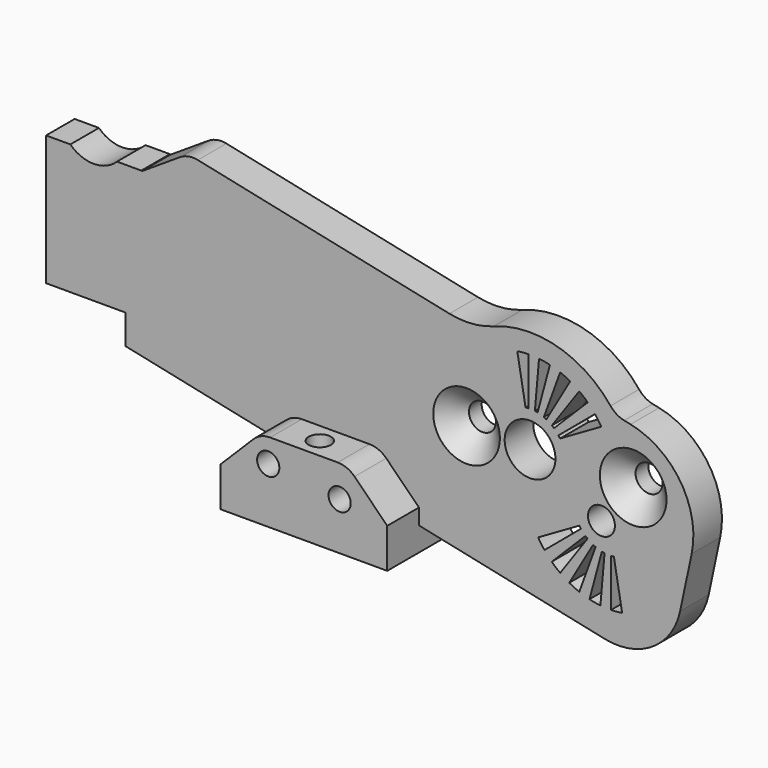
from build123d import *

# Parameters (mm, degrees)
CYLINDER088_R                = 1.4
CYLINDER088_DEPTH            = 20
CYLINDER088_ROLL_ANGLE       = 90
CYLINDER089_R                = 1.4
CYLINDER089_DEPTH            = 30
CYLINDER087_R                = 1.4
CYLINDER087_DEPTH            = 20
CYLINDER087_ROLL_ANGLE       = 90
BOX001027025_W               = 21
BOX001027025_H               = 9.5
BOX001027025_DEPTH           = 10
CHAMFER007_SIZE              = 5
FILLET013_R                  = 3
CYLINDER085_R                = 1.7
CYLINDER085_DEPTH            = 10
CYLINDER085_ROLL_ANGLE       = 90
CYLINDER084_R                = 1.7
CYLINDER084_DEPTH            = 10
CYLINDER084_ROLL_ANGLE       = 90
CYLINDER086_R                = 4.2
CYLINDER086_DEPTH            = 18
CYLINDER086_ROLL_ANGLE       = 90
BOX001027021_W               = 15
BOX001027021_H               = 24
BOX001027021_DEPTH           = 10.6
BOX001027029_W               = 2
BOX001027029_H               = 20
BOX001027029_DEPTH           = 13
CYLINDER094_R                = 2
CYLINDER094_DEPTH            = 26
CYLINDER094_ROLL_ANGLE       = 90
CYLINDER095_R                = 8
CYLINDER095_DEPTH            = 18
CYLINDER095_ROLL_ANGLE       = 90
BOX001027028_W               = 13
BOX001027028_H               = 20
BOX001027028_DEPTH           = 2
BOX001027028_PLACEMENT_ANGLE = 80
COMMON039_PITCH_ANGLE        = 10
COMMON040_PLACEMENT_ANGLE    = 25
COMMON041_PITCH_ANGLE        = -20
COMMON042_PITCH_ANGLE        = -35
COMMON038_PITCH_ANGLE        = -5
FUSION094_PLACEMENT_ANGLE    = 205
CYLINDER091_R                = 1.7
CYLINDER091_DEPTH            = 20
CYLINDER091_ROLL_ANGLE       = 90
CYLINDER090_R                = 3.2
CYLINDER090_DEPTH            = 20
CYLINDER090_ROLL_ANGLE       = 90
BOX001027027_W               = 2
BOX001027027_H               = 20
BOX001027027_DEPTH           = 13
CYLINDER092_R                = 2
CYLINDER092_DEPTH            = 26
CYLINDER092_ROLL_ANGLE       = 90
CYLINDER093_R                = 8
CYLINDER093_DEPTH            = 18
CYLINDER093_ROLL_ANGLE       = 90
BOX001027026_W               = 13
BOX001027026_H               = 20
BOX001027026_DEPTH           = 2
BOX001027026_PLACEMENT_ANGLE = 80
COMMON034_PITCH_ANGLE        = 10
COMMON035_PLACEMENT_ANGLE    = 25
COMMON036_PITCH_ANGLE        = -20
COMMON037_PITCH_ANGLE        = -35
COMMON033_PITCH_ANGLE        = -5
FUSION093_PLACEMENT_ANGLE    = 25
BOX001027024_W               = 80
BOX001027024_H               = 4.5
BOX001027024_DEPTH           = 25
BOX001027024_PITCH_ANGLE     = 12
CHAMFER006_SIZE              = 13
BOX001027022_W               = 12
BOX001027022_H               = 4.5
BOX001027022_DEPTH           = 17
CYLINDER096_R                = 13
CYLINDER096_DEPTH            = 4.5
CYLINDER096_ROLL_ANGLE       = 90
FILLET014_R                  = 8
FILLET015_R                  = 10
FILLET016_R                  = 3
FILLET017_R                  = 10
FILLET018_R                  = 3
CHAMFER009_SIZE              = 2.5


with BuildPart() as cylinder088:
    # Cylinder088 → Cylinder088 (new body)
    with BuildSketch(Plane.XY):
        Circle(CYLINDER088_R)
    extrude(amount=CYLINDER088_DEPTH)


with BuildPart() as cylinder088_1:
    # Cylinder088 roll: moved
    add(cylinder088.part.rotate(Axis((0, 0, 0), (1, 0, 0)), CYLINDER088_ROLL_ANGLE))


with BuildPart() as cylinder088_2:
    # Cylinder088 placement: moved
    add(cylinder088_1.part.moved(Location((26, 10, -35))))


with BuildPart() as cylinder089:
    # Cylinder089 → Cylinder089 (new body)
    with BuildSketch(Plane(origin=(30.5, 0, -55), x_dir=(1, 0, 0), z_dir=(0, 0, 1))):
        Circle(CYLINDER089_R)
    extrude(amount=CYLINDER089_DEPTH)


with BuildPart() as base_block_holes:
    # Cylinder087 → Cylinder087 (new body)
    with BuildSketch(Plane.XY):
        Circle(CYLINDER087_R)
    extrude(amount=CYLINDER087_DEPTH)


with BuildPart() as base_block_holes_1:
    # Cylinder087 roll: moved
    add(base_block_holes.part.rotate(Axis((0, 0, 0), (1, 0, 0)), CYLINDER087_ROLL_ANGLE))


with BuildPart() as base_block_holes_2:
    # Cylinder087 placement: moved
    add(base_block_holes_1.part.moved(Location((35, 10, -36))))

    # Fusion105: union Cylinder088, Cylinder089
    add(cylinder088_2.part)
    add(cylinder089.part)


with BuildPart() as fillet013:
    # Box001027025 → Box001027025 (new body)
    with BuildSketch(Plane(origin=(20, -2.5, -42), x_dir=(1, 0, 0), z_dir=(0, 0, 1))):
        with Locations((10.5, 4.75)):
            Rectangle(BOX001027025_W, BOX001027025_H)
    extrude(amount=BOX001027025_DEPTH)

    # Chamfer007
    chamfer007_edges = [fillet013.edges().sort_by_distance(p)[0] for p in [
        (20, 2.25, -32),
        (41, 2.25, -32),
    ]]
    chamfer(chamfer007_edges, length=CHAMFER007_SIZE)

    # Fillet013
    fillet013_edges = [fillet013.edges().sort_by_distance(p)[0] for p in [
        (25, 2.25, -32),
        (36, 2.25, -32),
    ]]
    fillet(fillet013_edges, radius=FILLET013_R)


with BuildPart() as cylinder160:
    # Cylinder085 → Cylinder085 (new body)
    with BuildSketch(Plane.XY):
        Circle(CYLINDER085_R)
    extrude(amount=CYLINDER085_DEPTH)


with BuildPart() as cylinder160_1:
    # Cylinder085 roll: moved
    add(cylinder160.part.rotate(Axis((0, 0, 0), (1, 0, 0)), CYLINDER085_ROLL_ANGLE))


with BuildPart() as cylinder160_2:
    # Cylinder085 placement: moved
    add(cylinder160_1.part.moved(Location((47, 10, -26))))


with BuildPart() as mounting_holes001:
    # Cylinder084 → Cylinder084 (new body)
    with BuildSketch(Plane.XY):
        Circle(CYLINDER084_R)
    extrude(amount=CYLINDER084_DEPTH)


with BuildPart() as mounting_holes001_1:
    # Cylinder084 roll: moved
    add(mounting_holes001.part.rotate(Axis((0, 0, 0), (1, 0, 0)), CYLINDER084_ROLL_ANGLE))


with BuildPart() as mounting_holes001_2:
    # Cylinder084 placement: moved
    add(mounting_holes001_1.part.moved(Location((68, 10, -26))))

    # Fusion096: union Cylinder160
    add(cylinder160_2.part)


with BuildPart() as cylinder086:
    # Cylinder086 → Cylinder086 (new body)
    with BuildSketch(Plane.XY):
        Circle(CYLINDER086_R)
    extrude(amount=CYLINDER086_DEPTH)


with BuildPart() as cylinder086_1:
    # Cylinder086 roll: moved
    add(cylinder086.part.rotate(Axis((0, 0, 0), (1, 0, 0)), CYLINDER086_ROLL_ANGLE))


with BuildPart() as cylinder086_2:
    # Cylinder086 placement: moved
    add(cylinder086_1.part.moved(Location((0, 9, -8))))


with BuildPart() as cube041:
    # Box001027021 → Box001027021 (new body)
    with BuildSketch(Plane(origin=(-11, -13, -38), x_dir=(1, 0, 0), z_dir=(0, 0, 1))):
        with Locations((7.5, 12)):
            Rectangle(BOX001027021_W, BOX001027021_H)
    extrude(amount=BOX001027021_DEPTH)


with BuildPart() as cube049:
    # Box001027029 → Box001027029 (new body)
    with BuildSketch(Plane(origin=(0, -10, 0), x_dir=(1, 0, 0), z_dir=(0, 0, 1))):
        with Locations((1, 10)):
            Rectangle(BOX001027029_W, BOX001027029_H)
    extrude(amount=BOX001027029_DEPTH)


with BuildPart() as cylinder161:
    # Cylinder094 → Cylinder094 (new body)
    with BuildSketch(Plane.XY):
        Circle(CYLINDER094_R)
    extrude(amount=CYLINDER094_DEPTH)


with BuildPart() as cylinder161_1:
    # Cylinder094 roll: moved
    add(cylinder161.part.rotate(Axis((0, 0, 0), (1, 0, 0)), CYLINDER094_ROLL_ANGLE))


with BuildPart() as cylinder161_2:
    # Cylinder094 placement: moved
    add(cylinder161_1.part.moved(Location((0, 12, 0))))


with BuildPart() as cut049:
    # Cylinder095 → Cylinder095 (new body)
    with BuildSketch(Plane.XY):
        Circle(CYLINDER095_R)
    extrude(amount=CYLINDER095_DEPTH)


with BuildPart() as cut049_1:
    # Cylinder095 roll: moved
    add(cut049.part.rotate(Axis((0, 0, 0), (1, 0, 0)), CYLINDER095_ROLL_ANGLE))


with BuildPart() as cut049_2:
    # Cylinder095 placement: moved
    add(cut049_1.part.moved(Location((0, 9, 0))))

    # Cut049: cut Cylinder161
    add(cylinder161_2.part, mode=Mode.SUBTRACT)


with BuildPart() as cube048:
    # Box001027028 → Box001027028 (new body)
    with BuildSketch(Plane.XY):
        with Locations((6.5, 10)):
            Rectangle(BOX001027028_W, BOX001027028_H)
    extrude(amount=BOX001027028_DEPTH)


with BuildPart() as cube048_1:
    # Box001027028 placement: moved
    add(cube048.part.moved(Location((0, -10, 0))).rotate(Axis((0, -10, 0), (0, -1, 0)), BOX001027028_PLACEMENT_ANGLE))


with BuildPart() as common039:
    # Common039 base: copy of Cube048
    add(cube048_1.part)

    # Common039: intersect Cube049, Cut049
    add(cube049.part, mode=Mode.INTERSECT)
    add(cut049_2.part, mode=Mode.INTERSECT)


with BuildPart() as common039_1:
    # Common039 pitch: moved
    add(common039.part.rotate(Axis((0, 0, 0), (0, 1, 0)), COMMON039_PITCH_ANGLE))


with BuildPart() as common039_2:
    # Common039 placement: moved
    add(common039_1.part.moved(Location((0.647048, 0, 2.414815))))


with BuildPart() as common040:
    # Common040 base: copy of Cube048
    add(cube048_1.part)

    # Common040: intersect Cube049, Cut049
    add(cube049.part, mode=Mode.INTERSECT)
    add(cut049_2.part, mode=Mode.INTERSECT)


with BuildPart() as common040_1:
    # Common040 placement: moved
    add(common040.part.moved(Location((1.25, 0, 2.165064))).rotate(Axis((1.25, 0, 2.165064), (0, 1, 0)), COMMON040_PLACEMENT_ANGLE))


with BuildPart() as common041:
    # Common041 base: copy of Cube048
    add(cube048_1.part)

    # Common041: intersect Cube049, Cut049
    add(cube049.part, mode=Mode.INTERSECT)
    add(cut049_2.part, mode=Mode.INTERSECT)


with BuildPart() as common041_1:
    # Common041 pitch: moved
    add(common041.part.rotate(Axis((0, 0, 0), (0, 1, 0)), COMMON041_PITCH_ANGLE))


with BuildPart() as common041_2:
    # Common041 placement: moved
    add(common041_1.part.moved(Location((-0.647048, 0, 2.414815))))


with BuildPart() as common042:
    # Common042 base: copy of Cube048
    add(cube048_1.part)

    # Common042: intersect Cube049, Cut049
    add(cube049.part, mode=Mode.INTERSECT)
    add(cut049_2.part, mode=Mode.INTERSECT)


with BuildPart() as common042_1:
    # Common042 pitch: moved
    add(common042.part.rotate(Axis((0, 0, 0), (0, 1, 0)), COMMON042_PITCH_ANGLE))


with BuildPart() as common042_2:
    # Common042 placement: moved
    add(common042_1.part.moved(Location((-1.25, 0, 2.165064))))


with BuildPart() as strength_slots009:
    # Common038 base: copy of Cube048
    add(cube048_1.part)

    # Common038: intersect Cube049, Cut049
    add(cube049.part, mode=Mode.INTERSECT)
    add(cut049_2.part, mode=Mode.INTERSECT)


with BuildPart() as strength_slots009_1:
    # Common038 pitch: moved
    add(strength_slots009.part.rotate(Axis((0, 0, 0), (0, 1, 0)), COMMON038_PITCH_ANGLE))


with BuildPart() as strength_slots009_2:
    # Common038 placement: moved
    add(strength_slots009_1.part.moved(Location((0, 0, 2.5))))

    # Fusion094: union Common039, Common040, Common041, Common042
    add(common039_2.part)
    add(common040_1.part)
    add(common041_2.part)
    add(common042_2.part)


with BuildPart() as strength_slots009_3:
    # Fusion094 placement: moved
    add(strength_slots009_2.part.moved(Location((65, 0, -30))).rotate(Axis((65, 0, -30), (0, 1, 0)), FUSION094_PLACEMENT_ANGLE))


with BuildPart() as cylinder091:
    # Cylinder091 → Cylinder091 (new body)
    with BuildSketch(Plane.XY):
        Circle(CYLINDER091_R)
    extrude(amount=CYLINDER091_DEPTH)


with BuildPart() as cylinder091_1:
    # Cylinder091 roll: moved
    add(cylinder091.part.rotate(Axis((0, 0, 0), (1, 0, 0)), CYLINDER091_ROLL_ANGLE))


with BuildPart() as cylinder091_2:
    # Cylinder091 placement: moved
    add(cylinder091_1.part.moved(Location((64, 10, -31))))


with BuildPart() as cylinder090:
    # Cylinder090 → Cylinder090 (new body)
    with BuildSketch(Plane.XY):
        Circle(CYLINDER090_R)
    extrude(amount=CYLINDER090_DEPTH)


with BuildPart() as cylinder090_1:
    # Cylinder090 roll: moved
    add(cylinder090.part.rotate(Axis((0, 0, 0), (1, 0, 0)), CYLINDER090_ROLL_ANGLE))


with BuildPart() as cylinder090_2:
    # Cylinder090 placement: moved
    add(cylinder090_1.part.moved(Location((55, 10, -26))))


with BuildPart() as cube047:
    # Box001027027 → Box001027027 (new body)
    with BuildSketch(Plane(origin=(0, -10, 0), x_dir=(1, 0, 0), z_dir=(0, 0, 1))):
        with Locations((1, 10)):
            Rectangle(BOX001027027_W, BOX001027027_H)
    extrude(amount=BOX001027027_DEPTH)


with BuildPart() as cylinder092:
    # Cylinder092 → Cylinder092 (new body)
    with BuildSketch(Plane.XY):
        Circle(CYLINDER092_R)
    extrude(amount=CYLINDER092_DEPTH)


with BuildPart() as cylinder092_1:
    # Cylinder092 roll: moved
    add(cylinder092.part.rotate(Axis((0, 0, 0), (1, 0, 0)), CYLINDER092_ROLL_ANGLE))


with BuildPart() as cylinder092_2:
    # Cylinder092 placement: moved
    add(cylinder092_1.part.moved(Location((0, 12, 0))))


with BuildPart() as cut048:
    # Cylinder093 → Cylinder093 (new body)
    with BuildSketch(Plane.XY):
        Circle(CYLINDER093_R)
    extrude(amount=CYLINDER093_DEPTH)


with BuildPart() as cut048_1:
    # Cylinder093 roll: moved
    add(cut048.part.rotate(Axis((0, 0, 0), (1, 0, 0)), CYLINDER093_ROLL_ANGLE))


with BuildPart() as cut048_2:
    # Cylinder093 placement: moved
    add(cut048_1.part.moved(Location((0, 9, 0))))

    # Cut048: cut Cylinder092
    add(cylinder092_2.part, mode=Mode.SUBTRACT)


with BuildPart() as cube046:
    # Box001027026 → Box001027026 (new body)
    with BuildSketch(Plane.XY):
        with Locations((6.5, 10)):
            Rectangle(BOX001027026_W, BOX001027026_H)
    extrude(amount=BOX001027026_DEPTH)


with BuildPart() as cube046_1:
    # Box001027026 placement: moved
    add(cube046.part.moved(Location((0, -10, 0))).rotate(Axis((0, -10, 0), (0, -1, 0)), BOX001027026_PLACEMENT_ANGLE))


with BuildPart() as common034:
    # Common034 base: copy of Cube046
    add(cube046_1.part)

    # Common034: intersect Cube047, Cut048
    add(cube047.part, mode=Mode.INTERSECT)
    add(cut048_2.part, mode=Mode.INTERSECT)


with BuildPart() as common034_1:
    # Common034 pitch: moved
    add(common034.part.rotate(Axis((0, 0, 0), (0, 1, 0)), COMMON034_PITCH_ANGLE))


with BuildPart() as common034_2:
    # Common034 placement: moved
    add(common034_1.part.moved(Location((0.647048, 0, 2.414815))))


with BuildPart() as common035:
    # Common035 base: copy of Cube046
    add(cube046_1.part)

    # Common035: intersect Cube047, Cut048
    add(cube047.part, mode=Mode.INTERSECT)
    add(cut048_2.part, mode=Mode.INTERSECT)


with BuildPart() as common035_1:
    # Common035 placement: moved
    add(common035.part.moved(Location((1.25, 0, 2.165064))).rotate(Axis((1.25, 0, 2.165064), (0, 1, 0)), COMMON035_PLACEMENT_ANGLE))


with BuildPart() as common036:
    # Common036 base: copy of Cube046
    add(cube046_1.part)

    # Common036: intersect Cube047, Cut048
    add(cube047.part, mode=Mode.INTERSECT)
    add(cut048_2.part, mode=Mode.INTERSECT)


with BuildPart() as common036_1:
    # Common036 pitch: moved
    add(common036.part.rotate(Axis((0, 0, 0), (0, 1, 0)), COMMON036_PITCH_ANGLE))


with BuildPart() as common036_2:
    # Common036 placement: moved
    add(common036_1.part.moved(Location((-0.647048, 0, 2.414815))))


with BuildPart() as common037:
    # Common037 base: copy of Cube046
    add(cube046_1.part)

    # Common037: intersect Cube047, Cut048
    add(cube047.part, mode=Mode.INTERSECT)
    add(cut048_2.part, mode=Mode.INTERSECT)


with BuildPart() as common037_1:
    # Common037 pitch: moved
    add(common037.part.rotate(Axis((0, 0, 0), (0, 1, 0)), COMMON037_PITCH_ANGLE))


with BuildPart() as common037_2:
    # Common037 placement: moved
    add(common037_1.part.moved(Location((-1.25, 0, 2.165064))))


with BuildPart() as common_holes:
    # Common033 base: copy of Cube046
    add(cube046_1.part)

    # Common033: intersect Cube047, Cut048
    add(cube047.part, mode=Mode.INTERSECT)
    add(cut048_2.part, mode=Mode.INTERSECT)


with BuildPart() as common_holes_1:
    # Common033 pitch: moved
    add(common_holes.part.rotate(Axis((0, 0, 0), (0, 1, 0)), COMMON033_PITCH_ANGLE))


with BuildPart() as common_holes_2:
    # Common033 placement: moved
    add(common_holes_1.part.moved(Location((0, 0, 2.5))))

    # Fusion093: union Common034, Common035, Common036, Common037
    add(common034_2.part)
    add(common035_1.part)
    add(common036_2.part)
    add(common037_2.part)


with BuildPart() as common_holes_3:
    # Fusion093 placement: moved
    add(common_holes_2.part.moved(Location((55, 0, -26))).rotate(Axis((55, 0, -26), (0, 1, 0)), FUSION093_PLACEMENT_ANGLE))

    # Fusion097: union strength-slots009, Cylinder091, Cylinder090
    add(strength_slots009_3.part)
    add(cylinder091_2.part)
    add(cylinder090_2.part)

    # Fusion098: union Cube041
    add(cube041.part)


with BuildPart() as chamfer006:
    # Box001027024 → Box001027024 (new body)
    with BuildSketch(Plane.XY):
        with Locations((40, 2.25)):
            Rectangle(BOX001027024_W, BOX001027024_H)
    extrude(amount=BOX001027024_DEPTH)


with BuildPart() as chamfer006_1:
    # Box001027024 pitch: moved
    add(chamfer006.part.rotate(Axis((0, 0, 0), (0, 1, 0)), BOX001027024_PITCH_ANGLE))


with BuildPart() as chamfer006_2:
    # Box001027024 placement: moved
    add(chamfer006_1.part.moved(Location((-6, 2.5, -29))))

    # Chamfer006
    chamfer006_edges = [chamfer006_2.edges().sort_by_distance(p)[0] for p in [
        (-0.802208, 4.75, -4.54631),
    ]]
    chamfer(chamfer006_edges, length=CHAMFER006_SIZE)


with BuildPart() as cube042:
    # Box001027022 → Box001027022 (new body)
    with BuildSketch(Plane(origin=(-6, 2.5, -28), x_dir=(1, 0, 0), z_dir=(0, 0, 1))):
        with Locations((6, 2.25)):
            Rectangle(BOX001027022_W, BOX001027022_H)
    extrude(amount=BOX001027022_DEPTH)


with BuildPart() as cut_holder_base:
    # Cylinder096 → Cylinder096 (new body)
    with BuildSketch(Plane.XY):
        Circle(CYLINDER096_R)
    extrude(amount=CYLINDER096_DEPTH)


with BuildPart() as cut_holder_base_1:
    # Cylinder096 roll: moved
    add(cut_holder_base.part.rotate(Axis((0, 0, 0), (1, 0, 0)), CYLINDER096_ROLL_ANGLE))


with BuildPart() as cut_holder_base_2:
    # Cylinder096 placement: moved
    add(cut_holder_base_1.part.moved(Location((55, 7, -26))))

    # Fusion095: union Chamfer006, Cube042
    add(chamfer006_2.part)
    add(cube042.part)

    # Cut050: cut common-holes
    add(common_holes_3.part, mode=Mode.SUBTRACT)

    # Cut051: cut Cylinder086
    add(cylinder086_2.part, mode=Mode.SUBTRACT)

    # Fillet014
    fillet014_edges = [cut_holder_base_2.edges().sort_by_distance(p)[0] for p in [
        (72.251808, 4.75, -45.632935),
    ]]
    fillet(fillet014_edges, radius=FILLET014_R)

    # Fillet015
    fillet015_edges = [cut_holder_base_2.edges().sort_by_distance(p)[0] for p in [
        (77.4496, 4.75, -21.179245),
    ]]
    fillet(fillet015_edges, radius=FILLET015_R)

    # Fillet016
    fillet016_edges = [cut_holder_base_2.edges().sort_by_distance(p)[0] for p in [
        (65.751998, 4.75, -18.692843),
    ]]
    fillet(fillet016_edges, radius=FILLET016_R)

    # Fillet017
    fillet017_edges = [cut_holder_base_2.edges().sort_by_distance(p)[0] for p in [
        (48.14965, 4.75, -14.951348),
    ]]
    fillet(fillet017_edges, radius=FILLET017_R)

    # Fillet018
    fillet018_edges = [cut_holder_base_2.edges().sort_by_distance(p)[0] for p in [
        (11.913711, 4.75, -7.249162),
    ]]
    fillet(fillet018_edges, radius=FILLET018_R)

    # Cut056: cut mounting-holes001
    add(mounting_holes001_2.part, mode=Mode.SUBTRACT)

    # Chamfer009
    chamfer009_edges = [cut_holder_base_2.edges().sort_by_distance(p)[0] for p in [
        (69.162118, 2.5, -24.759242),
        (69.162118, 2.5, -27.240758),
        (66.3, 2.5, -26),
        (45.3, 2.5, -26),
    ]]
    chamfer(chamfer009_edges, length=CHAMFER009_SIZE)

    # Fusion104: union Fillet013
    add(fillet013.part)

    # Cut057: cut base-block-holes
    add(base_block_holes_2.part, mode=Mode.SUBTRACT)


solid = cut_holder_base_2.part
